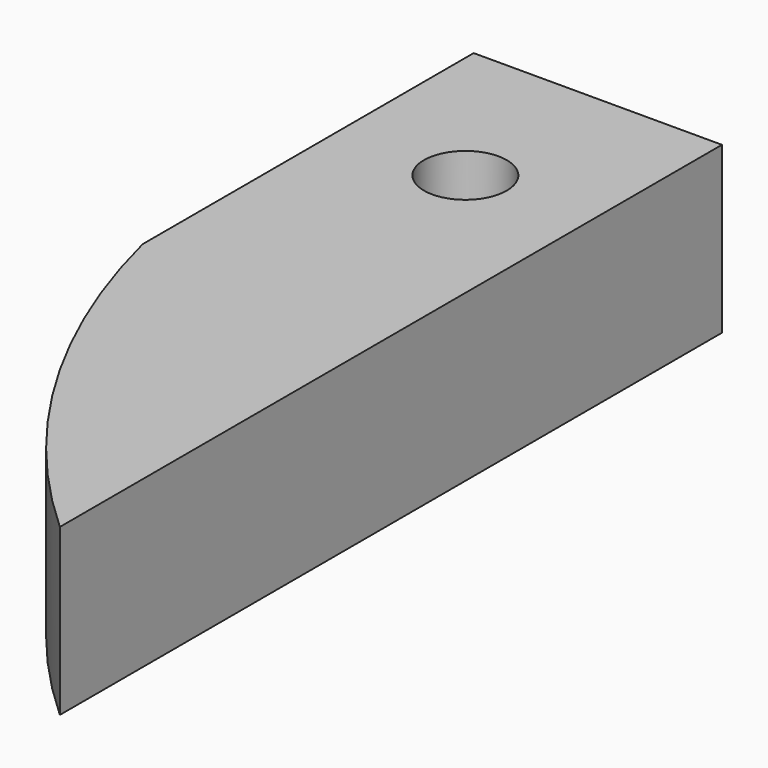
from build123d import *

# Parameters (mm, degrees)
F0_R     = 12.7
F1_DEPTH = 50.8


with BuildPart() as f1:
    # F0 (on Top) → F1 (new body)
    with BuildSketch(Plane.XY):
        with BuildLine():
            Line((38.1, 50.8), (-38.1, 50.8))
            Line((-38.1, 50.8), (-38.1, -76.2))
            ThreePointArc((-38.1, -76.2), (-9.462172, -145.377303), (38.1, -203.2))
            Line((38.1, -203.2), (38.1, 50.8))
        make_face()
        Circle(F0_R, mode=Mode.SUBTRACT)
    extrude(amount=F1_DEPTH)


solid = f1.part
